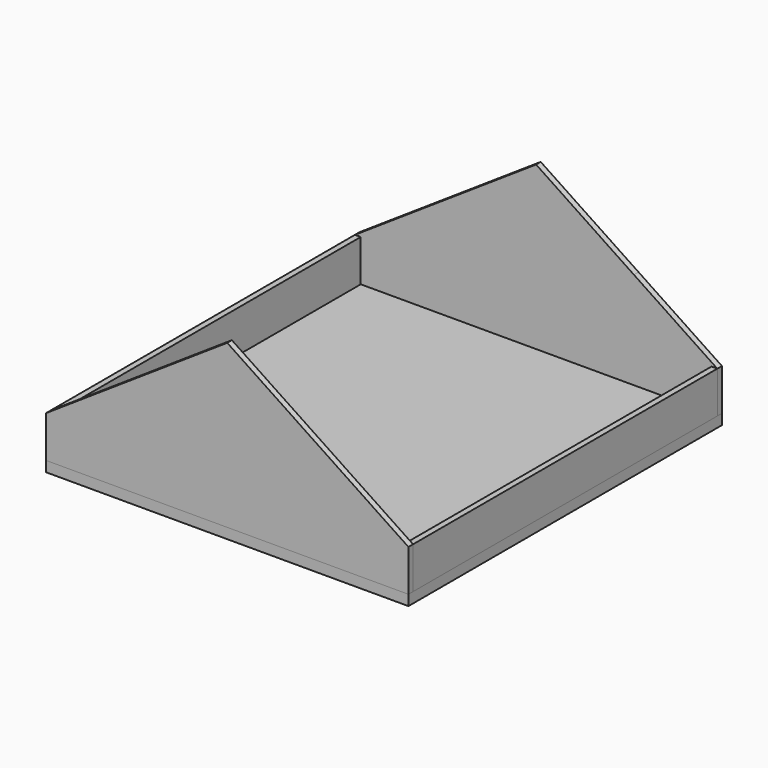
from build123d import *

# Parameters (mm, degrees)
F0_W      = 7950.2
F0_H      = 8597.9
F1_DEPTH  = 228.6
F2_W      = 3365.5
F2_H      = 1066.8
F3_DEPTH  = 228.6
F5_DEPTH  = 127
F7_DEPTH  = 127
F8_W      = 8343.9
F8_H      = 914.4
F9_DEPTH  = 127
F10_W     = 8343.9
F10_H     = 914.4
F11_DEPTH = 127


with BuildPart() as f1:
    # F0 (on Top) → F1 (new body)
    with BuildSketch(Plane.XY):
        Rectangle(F0_W, F0_H)
    extrude(amount=F1_DEPTH)

    # F2 (on face) → F3 (cut, through all)
    with BuildSketch(Plane.XY.offset(228.6)):
        with Locations((1758.95, -3638.55)):
            Rectangle(F2_W, F2_H)
    extrude(amount=-F3_DEPTH, mode=Mode.SUBTRACT)


with BuildPart() as f5:
    # F4 (on face) → F5 (new body)
    with BuildSketch(Plane.XZ.offset(4298.95)):
        Polygon((-3975.1, 1143), (-3975.1, 228.6), (3975.1, 228.6), (3975.1, 1143), (0, 3793.066667), align=None)
    extrude(amount=-F5_DEPTH)


with BuildPart() as f7:
    # F6 (on face) → F7 (new body)
    with BuildSketch(Plane(origin=(0, 4298.95, 0), x_dir=(-1, 0, 0), z_dir=(0, 1, 0))):
        Polygon((-3975.1, 1143), (-3975.1, 228.6), (3975.1, 228.6), (3975.1, 1143), (2146.3, 2362.2), (-2146.3, 2362.2), align=None)
        Polygon((0, 3793.066667), (-2146.3, 2362.2), (2146.3, 2362.2), align=None)
    extrude(amount=-F7_DEPTH)


with BuildPart() as f9:
    # F8 (on face) → F9 (new body)
    with BuildSketch(Plane(origin=(-3975.1, 0, 0), x_dir=(0, -1, 0), z_dir=(-1, 0, 0))):
        with Locations((0, 685.8)):
            Rectangle(F8_W, F8_H)
    extrude(amount=-F9_DEPTH)


with BuildPart() as f11:
    # F10 (on face) → F11 (new body)
    with BuildSketch(Plane.YZ.offset(3975.1)):
        with Locations((0, 685.8)):
            Rectangle(F10_W, F10_H)
    extrude(amount=-F11_DEPTH)


solid = Compound([f1.part, f5.part, f7.part, f9.part, f11.part])
